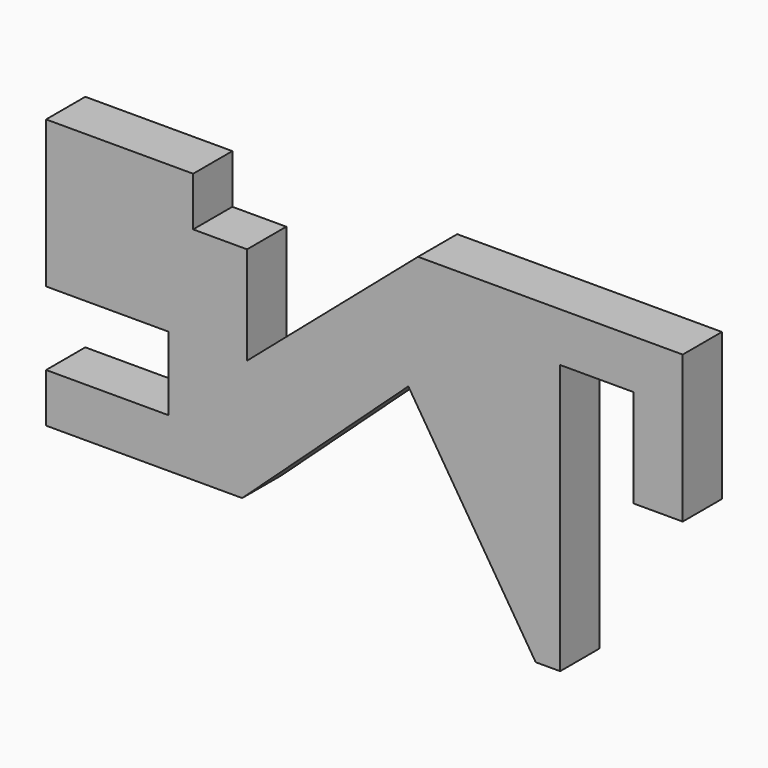
from build123d import *

# Parameters (mm, degrees)
F1_DEPTH = 25.4


with BuildPart() as f1:
    # F0 (on Front) → F1 (new body)
    with BuildSketch(Plane.XZ):
        Polygon((0, 25.4), (0, 0), (0, -50.8), (63.5, -50.8), (63.5, -88.9), (0, -88.9), (0, -114.3), (101.6, -114.3), (187.702556, -35.319398), (253.672827, -139.7), (266.372827, -139.7), (266.372827, 0), (304.472827, 0), (304.472827, -50.8), (329.872827, -50.8), (329.872827, 0), (329.872827, 25.4), (192.712827, 25.4), (104.14, -50.8), (104.14, 0), (76.2, 0), (76.2, 25.4), align=None)
    extrude(amount=F1_DEPTH)


solid = f1.part
